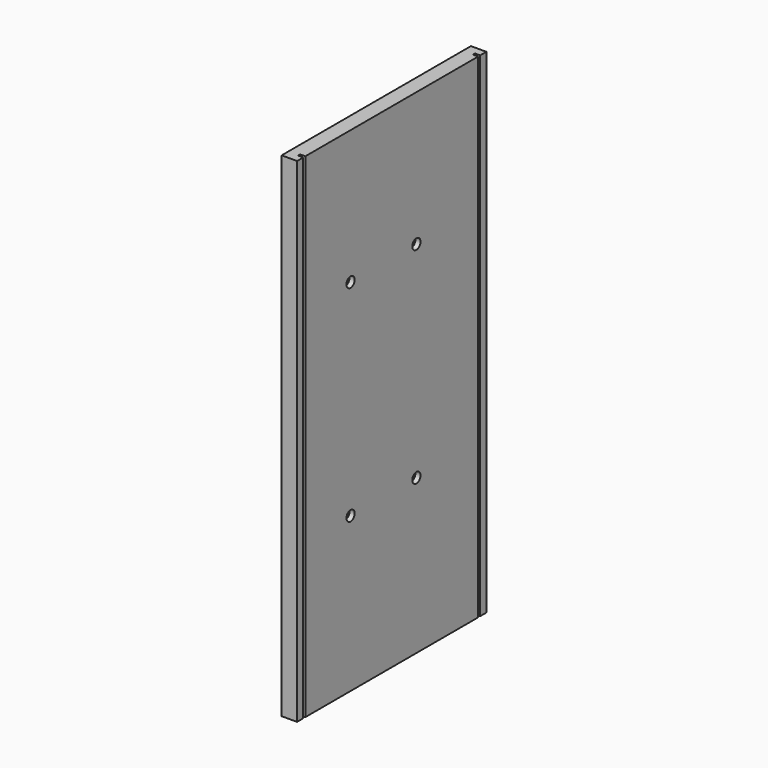
from build123d import *

# Parameters (mm, degrees)
SKETCH_W          = 292.1
SKETCH_H          = 609.6
PAD_DEPTH         = 19.05
BOX_W             = 3.175
BOX_H             = 609.6
BOX_DEPTH         = 6.35
BOX001_W          = 3.175
BOX001_H          = 609.6
BOX001_DEPTH      = 6.35
CYLINDER_R        = 6.35
CYLINDER_DEPTH    = 6.35
CYLINDER001_R     = 6.35
CYLINDER001_DEPTH = 6.35
CYLINDER002_R     = 6.35
CYLINDER002_DEPTH = 6.35
CYLINDER003_R     = 6.35
CYLINDER003_DEPTH = 6.35


with BuildPart() as part:
    # Sketch → Pad (new body)
    with BuildSketch(Plane.YZ):
        with Locations((0, 304.8)):
            Rectangle(SKETCH_W, SKETCH_H)
    extrude(amount=PAD_DEPTH)

    # Box → Box (cut)
    with BuildSketch(Plane(origin=(12.7, -136.525, 0), x_dir=(0, 1, 0), z_dir=(1, 0, 0))):
        with Locations((1.5875, 304.8)):
            Rectangle(BOX_W, BOX_H)
    extrude(amount=BOX_DEPTH, mode=Mode.SUBTRACT)

    # Box001 → Box001 (cut)
    with BuildSketch(Plane(origin=(12.7, 133.35, 0), x_dir=(0, 1, 0), z_dir=(1, 0, 0))):
        with Locations((1.5875, 304.8)):
            Rectangle(BOX001_W, BOX001_H)
    extrude(amount=BOX001_DEPTH, mode=Mode.SUBTRACT)

    # Cylinder → Cylinder (cut)
    with BuildSketch(Plane(origin=(12.7, -63.5, 444.5), x_dir=(0, 1, 0), z_dir=(1, 0, 0))):
        Circle(CYLINDER_R)
    extrude(amount=CYLINDER_DEPTH, mode=Mode.SUBTRACT)

    # Cylinder001 → Cylinder001 (cut)
    with BuildSketch(Plane(origin=(12.7, 38.1, 444.5), x_dir=(0, 1, 0), z_dir=(1, 0, 0))):
        Circle(CYLINDER001_R)
    extrude(amount=CYLINDER001_DEPTH, mode=Mode.SUBTRACT)

    # Cylinder002 → Cylinder002 (cut)
    with BuildSketch(Plane(origin=(12.7, 38.1, 190.5), x_dir=(0, 1, 0), z_dir=(1, 0, 0))):
        Circle(CYLINDER002_R)
    extrude(amount=CYLINDER002_DEPTH, mode=Mode.SUBTRACT)

    # Cylinder003 → Cylinder003 (cut)
    with BuildSketch(Plane(origin=(12.7, -63.5, 190.5), x_dir=(0, 1, 0), z_dir=(1, 0, 0))):
        Circle(CYLINDER003_R)
    extrude(amount=CYLINDER003_DEPTH, mode=Mode.SUBTRACT)


solid = part.part
